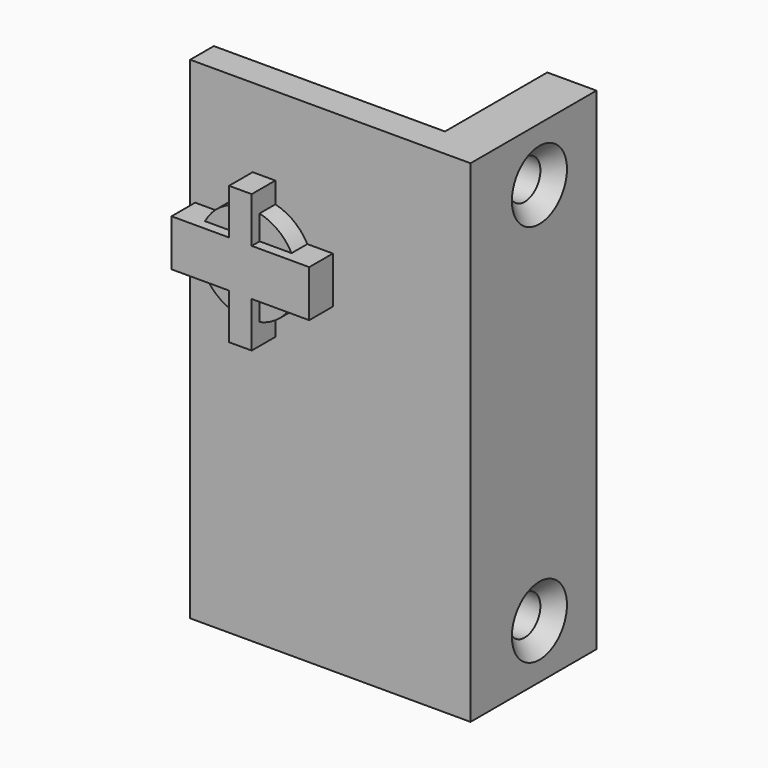
from build123d import *

# Parameters (mm, degrees)
SKETCH020_W       = 2.3
SKETCH020_H       = 14
PAD010_DEPTH      = 3
SKETCH021_W       = 14
SKETCH021_H       = 4.75
PAD011_DEPTH      = 3
SKETCH022_R       = 5
PAD012_DEPTH      = 2
SKETCH023_W       = 28.5
SKETCH023_H       = 50
PAD013_DEPTH      = 3
SKETCH024_W       = 5
SKETCH024_H       = 50
PAD014_DEPTH      = 13
CYLINDER003_R     = 2
CYLINDER003_DEPTH = 15
CHAMFER001_SIZE   = 1.5


with BuildPart() as part:
    # Sketch020 → Pad010 (new body)
    with BuildSketch(Plane.XZ.offset(3)):
        with Locations((0, 10)):
            Rectangle(SKETCH020_W, SKETCH020_H)
    extrude(amount=PAD010_DEPTH)

    # Sketch021 → Pad011 (join)
    with BuildSketch(Plane.XZ.offset(3)):
        with Locations((0, 9.995)):
            Rectangle(SKETCH021_W, SKETCH021_H)
    extrude(amount=PAD011_DEPTH)

    # Sketch022 → Pad012 (join)
    with BuildSketch(Plane.XZ.offset(3)):
        with Locations((0, 10)):
            Circle(SKETCH022_R)
    extrude(amount=PAD012_DEPTH)

    # Sketch023 → Pad013 (join)
    with BuildSketch(Plane.XZ):
        with Locations((6.75, 0)):
            Rectangle(SKETCH023_W, SKETCH023_H)
    extrude(amount=PAD013_DEPTH)

    # Sketch024 → Pad014 (join)
    with BuildSketch(Plane.XZ):
        with Locations((18.5, 0)):
            Rectangle(SKETCH024_W, SKETCH024_H)
    extrude(amount=-PAD014_DEPTH)

    # Cylinder003 → Cylinder003 (cut)
    with BuildSketch(Plane(origin=(10, 5.75, -19.5), x_dir=(0, 1, 0), z_dir=(1, 0, 0))):
        Circle(CYLINDER003_R)
    cylinder003 = extrude(amount=CYLINDER003_DEPTH, mode=Mode.SUBTRACT)

    # Mirrored011: Cylinder003 across XY
    add(cylinder003.mirror(Plane.XY), mode=Mode.SUBTRACT)

    # Chamfer001
    chamfer001_edges = [part.edges().sort_by_distance(p)[0] for p in [
        (21, 3.75, -19.5),
        (21, 3.75, 19.5),
    ]]
    chamfer(chamfer001_edges, length=CHAMFER001_SIZE)


solid = part.part
